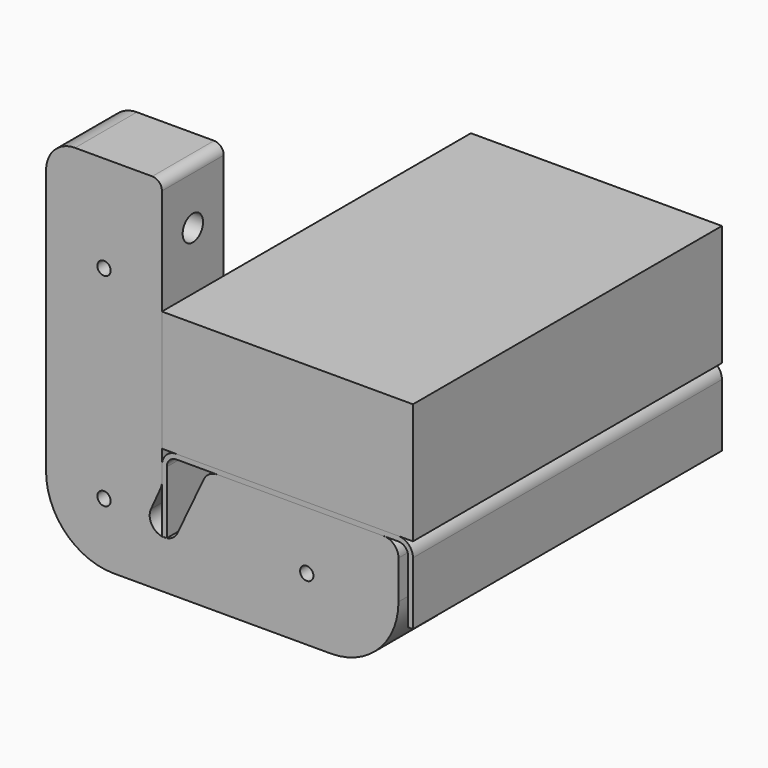
from build123d import *

# Parameters (mm, degrees)
F1_DEPTH        = 127
F2_W            = 82.55
F2_H            = 39.6875
F3_DEPTH        = 127
F4_R            = 3.96875
F5_DEPTH        = 25.4
F7_DEPTH        = 25.4
F8_R            = 22.225
F10_R           = 8.001
F11_DEPTH       = 25.4
F12_D           = 6.096
F12_CSINK_D     = 10.922
F12_CSINK_ANGLE = 82
F13_R           = 3.175
F14_R           = 9.525
F16_D           = 8.382
F16_CBORE_D     = 14.2875
F16_CBORE_DEPTH = 25.4
F17_R           = 5.08
F18_R           = 2.1844
F19_DEPTH       = 25.4010001


with BuildPart() as f1:
    # F0 (on Front) → F1 (new body)
    with BuildSketch(Plane.XZ):
        with BuildLine():
            Line((39.6875, -23.8125), (41.275, -23.8125))
            Line((41.275, -23.8125), (41.275, -3.175))
            ThreePointArc((41.275, -3.175), (39.8800960454, 0.1925960454), (36.5125, 1.5875))
            Line((36.5125, 1.5875), (-36.5125, 1.5875))
            ThreePointArc((-36.5125, 1.5875), (-39.8800960454, 0.1925960454), (-41.275, -3.175))
            Line((-41.275, -3.175), (-41.275, -23.8125))
            Line((-41.275, -23.8125), (-39.6875, -23.8125))
            Line((-39.6875, -23.8125), (-39.6875, -3.175))
            ThreePointArc((-39.6875, -3.175), (-38.7575640303, -0.9299359697), (-36.5125, 0))
            Line((-36.5125, 0), (36.5125, 0))
            ThreePointArc((36.5125, 0), (38.7575640303, -0.9299359697), (39.6875, -3.175))
            Line((39.6875, -3.175), (39.6875, -23.8125))
        make_face()
    extrude(amount=F1_DEPTH)

    # F4 (on face) → F5 (cut)
    with BuildSketch(Plane(origin=(0, 0, 0), x_dir=(1, 0, 0), z_dir=(0, 0, -1))):
        with Locations((-19.05, 107.95)):
            Circle(F4_R)
        with Locations((19.05, 107.95)):
            Circle(F4_R)
    extrude(amount=-F5_DEPTH, mode=Mode.SUBTRACT)


with BuildPart() as f3:
    # F2 (on face) → F3 (new body, through all)
    with BuildSketch(Plane.XZ.offset(127)):
        with Locations((0, 21.43125)):
            Rectangle(F2_W, F2_H)
    extrude(amount=-F3_DEPTH)


with BuildPart() as f7:
    # F6 (on face) → F7 (new body)
    with BuildSketch(Plane.XZ.offset(127)):
        with BuildLine():
            Line((-41.275, -3.175), (-41.275, 79.375))
            Line((-41.275, 79.375), (-79.375, 79.375))
            Line((-79.375, 79.375), (-79.375, -39.6875))
            Line((-79.375, -39.6875), (36.5125, -39.6875))
            Line((36.5125, -39.6875), (36.5125, -4.7625))
            ThreePointArc((36.5125, -4.7625), (35.1175960454, -1.3949039546), (31.75, 0))
            Line((31.75, 0), (-26.19375, 0))
            Line((-26.19375, 0), (-36.1136453021, -21.1051003173))
            ThreePointArc((-36.1136453021, -21.1051003173), (-37.5670779324, -22.8990239183), (-39.6875, -23.8125))
            ThreePointArc((-39.6875, -23.8125), (-40.48125, -23.8782230188), (-41.275, -23.8125))
            ThreePointArc((-41.275, -23.8125), (-44.7385710396, -21.3249952393), (-44.8782165057, -17.063011731))
            Line((-44.8782165057, -17.063011731), (-41.275, -9.0984368335))
            Line((-41.275, -9.0984368335), (-41.275, -3.175))
        make_face()
    extrude(amount=-F7_DEPTH)

    # F8
    f8_edges = [f7.edges().sort_by_distance(p)[0] for p in [
        (-79.375, -114.3, -39.6875),
        (36.5125, -114.3, -39.6875),
    ]]
    fillet(f8_edges, radius=F8_R)

    # F10 (on offset) → F11 (cut)
    with BuildSketch(Plane(origin=(0, 0, -23.8125), x_dir=(1, 0, 0), z_dir=(0, 0, -1))):
        with Locations((-19.05, 114.3)):
            Circle(F10_R)
        with Locations((19.05, 114.3)):
            Circle(F10_R)
    extrude(amount=F11_DEPTH, mode=Mode.SUBTRACT)

    # F12 (through all)
    with Locations(Plane(origin=(0, 0, -23.8125), x_dir=(1, 0, 0), z_dir=(0, 0, -1))):
        with Locations((-19.05, 114.3), (19.05, 114.3)):
            CounterSinkHole(F12_D / 2, F12_CSINK_D / 2, counter_sink_angle=F12_CSINK_ANGLE)

    # F13
    f13_edges = [f7.edges().sort_by_distance(p)[0] for p in [
        (-41.275, -114.3, 79.375),
    ]]
    fillet(f13_edges, radius=F13_R)

    # F14
    f14_edges = [f7.edges().sort_by_distance(p)[0] for p in [
        (-79.375, -114.3, 79.375),
    ]]
    fillet(f14_edges, radius=F14_R)

    # F16 (through all)
    with Locations(Plane(origin=(-79.375, 0, 0), x_dir=(0, -1, 0), z_dir=(-1, 0, 0))):
        with Locations((114.3, 60.325)):
            CounterBoreHole(F16_D / 2, F16_CBORE_D / 2, F16_CBORE_DEPTH)

    # F17
    f17_edges = [f7.edges().sort_by_distance(p)[0] for p in [
        (-41.275, -114.3, -9.098437),
        (-26.19375, -114.3, 0),
    ]]
    fillet(f17_edges, radius=F17_R)

    # F18 (on face) → F19 (cut, through all)
    with BuildSketch(Plane(origin=(0, -101.6, 0), x_dir=(-1, 0, 0), z_dir=(0, 1, 0))):
        with Locations((60.325, 47.625)):
            Circle(F18_R)
        with Locations((60.325, -19.05)):
            Circle(F18_R)
        with Locations((-6.35, -19.05)):
            Circle(F18_R)
    extrude(amount=-F19_DEPTH, mode=Mode.SUBTRACT)


solid = Compound([f1.part, f3.part, f7.part])
